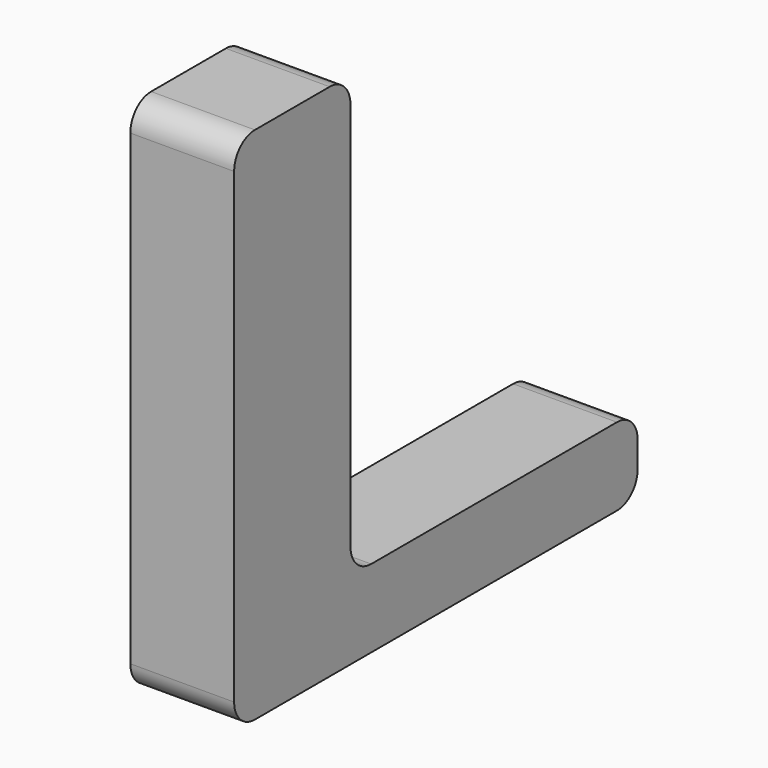
from build123d import *

# Parameters (mm, degrees)
F1_DEPTH = 20


with BuildPart() as f1:
    # F0 (on Right) → F1 (new body)
    with BuildSketch(Plane.YZ):
        with BuildLine():
            Line((-30.74899, 39.781864), (-48.74899, 39.781864))
            ThreePointArc((-48.74899, 39.781864), (-52.284524, 38.317398), (-53.74899, 34.781864))
            Line((-53.74899, 34.781864), (-53.74899, -55.218136))
            ThreePointArc((-53.74899, -55.218136), (-52.284524, -58.75367), (-48.74899, -60.218136))
            Line((-48.74899, -60.218136), (38.41838, -60.218136))
            ThreePointArc((38.41838, -60.218136), (41.953914, -58.75367), (43.41838, -55.218136))
            Line((43.41838, -55.218136), (43.41838, -50.218136))
            ThreePointArc((43.41838, -50.218136), (41.953914, -46.682602), (38.41838, -45.218136))
            Line((38.41838, -45.218136), (-20.74899, -45.218136))
            ThreePointArc((-20.74899, -45.218136), (-24.284524, -43.75367), (-25.74899, -40.218136))
            Line((-25.74899, -40.218136), (-25.74899, 34.781864))
            ThreePointArc((-25.74899, 34.781864), (-27.213456, 38.317398), (-30.74899, 39.781864))
        make_face()
    extrude(amount=F1_DEPTH)


solid = f1.part
